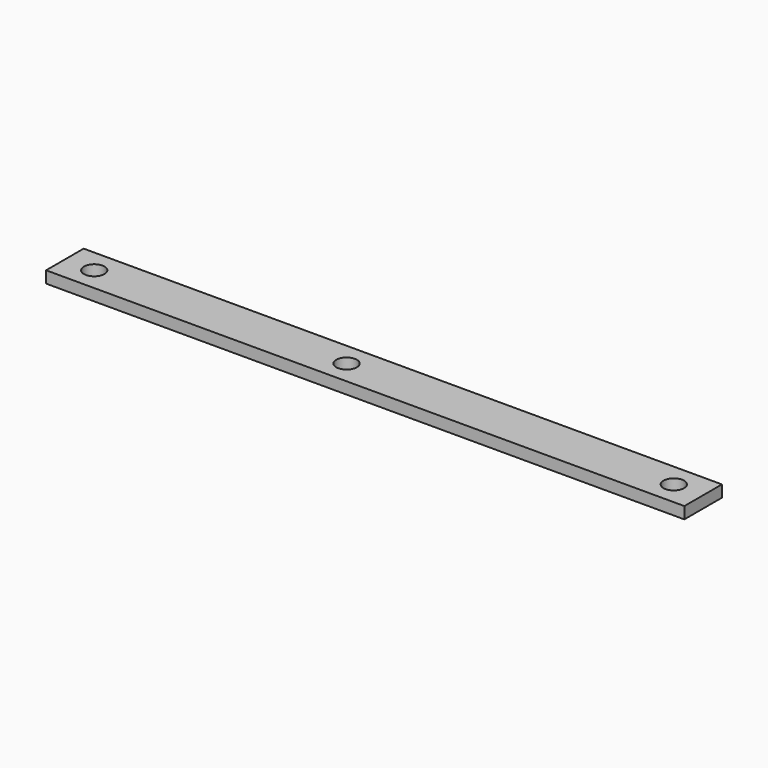
from build123d import *

# Parameters (mm, degrees)
SKETCH001_W  = 108.75
SKETCH001_H  = 8
PAD_DEPTH    = 2
SKETCH_R     = 1.75
POCKET_DEPTH = 10


with BuildPart() as part:
    # Sketch001 → Pad (new body)
    with BuildSketch(Plane.XY):
        with Locations((54.375, 4)):
            Rectangle(SKETCH001_W, SKETCH001_H)
    extrude(amount=PAD_DEPTH)

    # Sketch (on Face6 of Pad) → Pocket (cut)
    with BuildSketch(Plane.XY.offset(2)):
        with Locations((5, 4)):
            Circle(SKETCH_R)
        with Locations((48, 4)):
            Circle(SKETCH_R)
        with Locations((103.75, 4)):
            Circle(SKETCH_R)
    extrude(amount=-POCKET_DEPTH, mode=Mode.SUBTRACT)


solid = part.part
